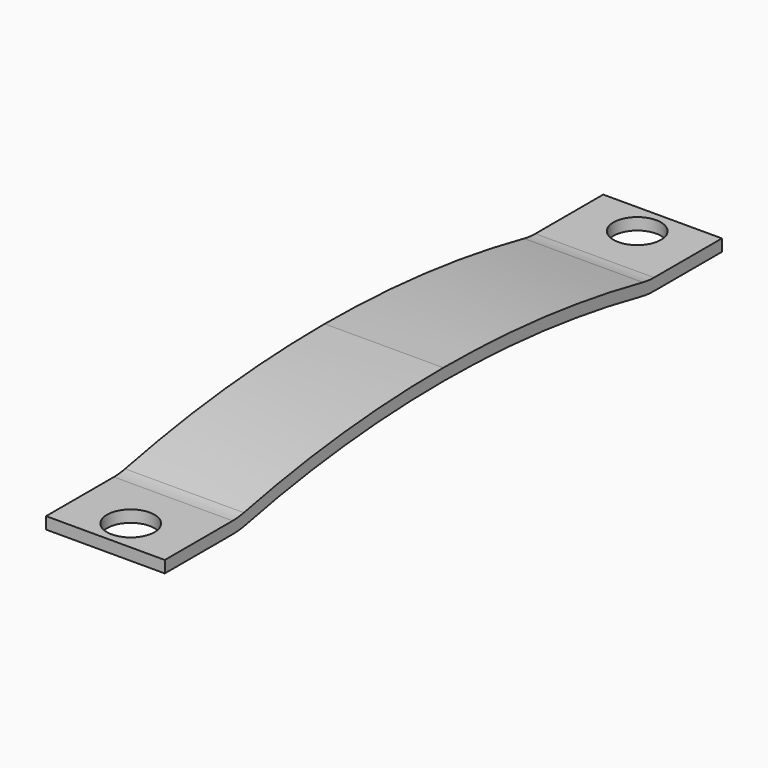
from build123d import *

# Parameters (mm, degrees)
F1_DEPTH      = 7.5
F1_DEPTH_BACK = 7.5
F2_R          = 3
F3_DEPTH      = 5.001


with BuildPart() as f1:
    # F0 (on Right) → F1 (new body, two sides)
    with BuildSketch(Plane.YZ) as f1_sk:
        with BuildLine():
            Line((-44, 1.5), (-44, 0))
            Line((-44, 0), (-33.282878, 0))
            ThreePointArc((-33.282878, 0), (-32.237053, 0.054838), (-31.202699, 0.21875))
            ThreePointArc((-31.202699, 0.21875), (-15.687375, 2.677432), (0, 3.5))
            ThreePointArc((0, 3.5), (15.687375, 2.677432), (31.202699, 0.21875))
            ThreePointArc((31.202699, 0.21875), (32.237053, 0.054838), (33.282878, 0))
            Line((33.282878, 0), (44, 0))
            Line((44, 0), (44, 1.5))
            Line((44, 1.5), (33.282878, 1.5))
            ThreePointArc((33.282878, 1.5), (32.393927, 1.546612), (31.514726, 1.685938))
            ThreePointArc((31.514726, 1.685938), (15.844249, 4.169206), (0, 5))
            ThreePointArc((0, 5), (-15.844249, 4.169206), (-31.514726, 1.685938))
            ThreePointArc((-31.514726, 1.685938), (-32.393927, 1.546612), (-33.282878, 1.5))
            Line((-33.282878, 1.5), (-44, 1.5))
        make_face()
    extrude(amount=F1_DEPTH)
    extrude(f1_sk.sketch, amount=-F1_DEPTH_BACK)

    # F2 (on Top) → F3 (cut, through all)
    with BuildSketch(Plane.XY):
        with Locations((0, 40)):
            Circle(F2_R)
        with Locations((0, -40)):
            Circle(F2_R)
    extrude(amount=F3_DEPTH, mode=Mode.SUBTRACT)


solid = f1.part
